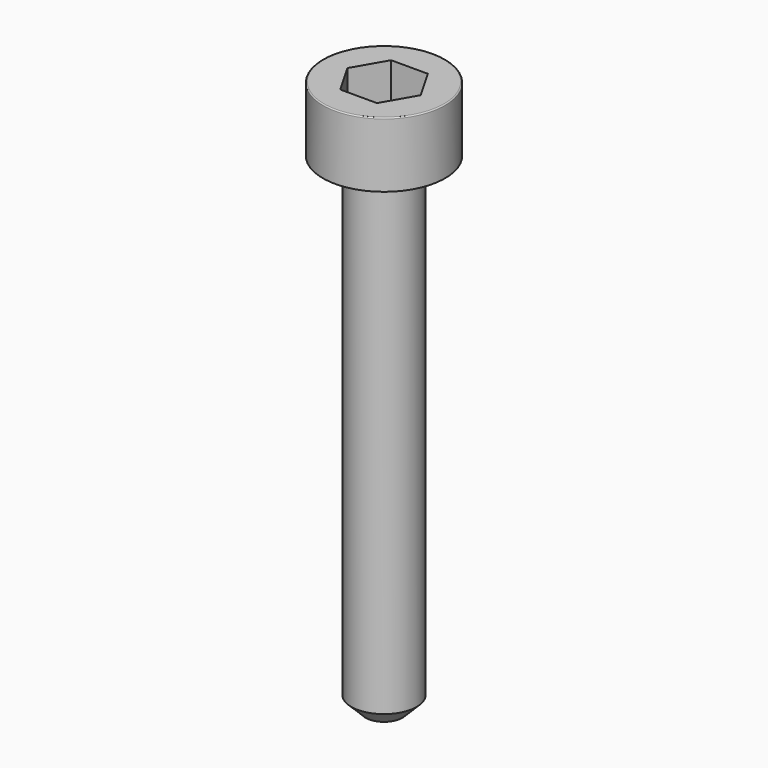
from build123d import *

# Parameters (mm, degrees)
POCKET_DEPTH = 1.56


with BuildPart() as part:
    # Sketch → Revolve (revolve)
    with BuildSketch(Plane.YZ):
        with BuildLine():
            Line((0.799, 0), (1.5, 0))
            Line((1.5, 0), (1.5, 1.57229))
            ThreePointArc((1.5, 1.57229), (1.491884, 1.591884), (1.47229, 1.6))
            Line((1.47229, 1.6), (0, 1.6))
            Line((0, -12), (0, 1.6))
            Line((0.45, -12), (0, -12))
            Line((0.8, -11.65), (0.45, -12))
            Line((0.8, -0.2), (0.8, -11.65))
            Line((0.799, 0), (0.8, -0.2))
        make_face()
    revolve(axis=Axis((0, 0, 0), (0, 0, 1)))

    # Sketch001 → Pocket (cut)
    with BuildSketch(Plane.XY.offset(1.6)):
        Polygon((0.900666, 0), (0.450333, 0.78), (-0.450333, 0.78), (-0.900666, 0), (-0.450333, -0.78), (0.450333, -0.78), align=None)
    extrude(amount=-POCKET_DEPTH, mode=Mode.SUBTRACT)


solid = part.part
